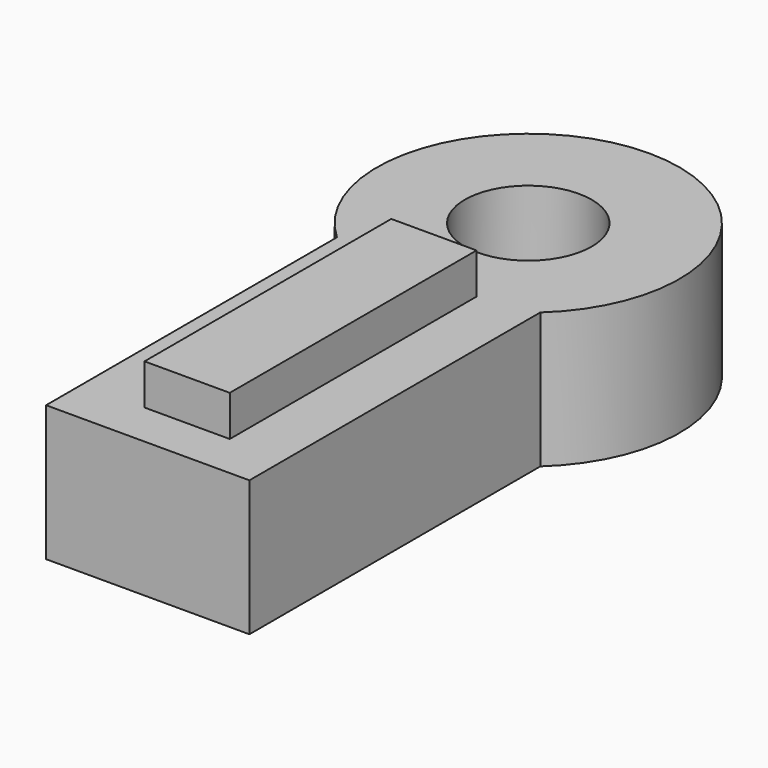
from build123d import *

# Parameters (mm, degrees)
F0_W     = 6.288823
F0_H     = 22.754102
F0_R     = 4.68301
F1_DEPTH = 10
F2_DEPTH = 13


with BuildPart() as f1:
    # F0 (on Top) → F1 (new body)
    with BuildSketch(Plane.XY):
        with BuildLine():
            Line((20.521231, 4.569745), (20.521231, 31.395026))
            ThreePointArc((20.521231, 31.395026), (13.021231, 50.816255), (5.521231, 31.395026))
            Line((5.521231, 31.395026), (5.521231, 4.569745))
            Line((5.521231, 4.569745), (20.521231, 4.569745))
        make_face()
        with Locations((13.274627, 19.26272)):
            Rectangle(F0_W, F0_H, mode=Mode.SUBTRACT)
        with Locations((13.021231, 39.657483)):
            Circle(F0_R, mode=Mode.SUBTRACT)
    extrude(amount=F1_DEPTH)

    # F0 (on Top) → F2 (join)
    with BuildSketch(Plane.XY):
        with Locations((13.274627, 19.26272)):
            Rectangle(F0_W, F0_H)
    extrude(amount=F2_DEPTH)


solid = f1.part
